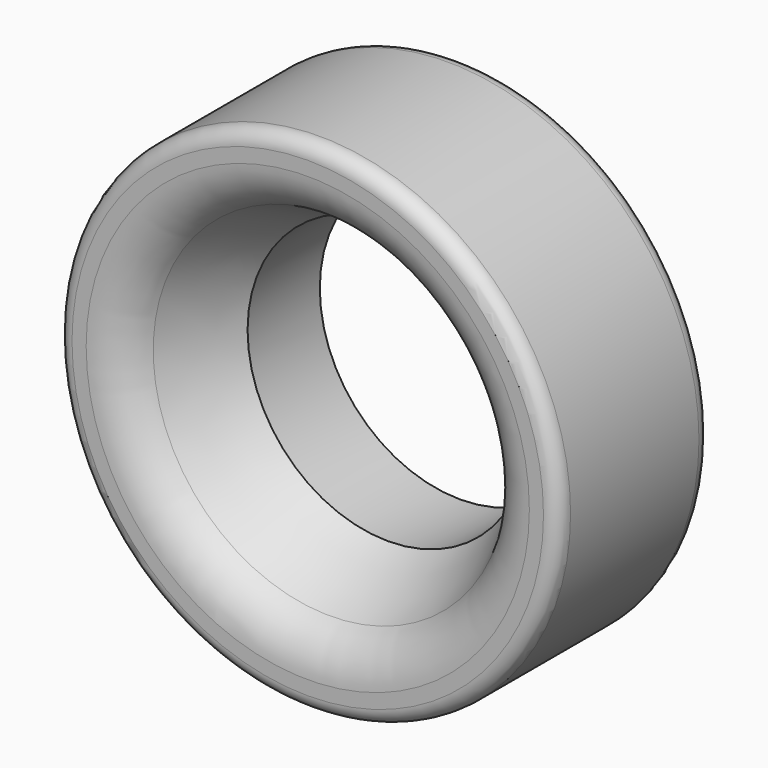
from build123d import *

# Parameters (mm, degrees)
F0_R     = 50
F0_R_2   = 28
F1_DEPTH = 38
F2_SIZE2 = 10
F2_SIZE  = 20
F3_R     = 10
F4_R     = 3


with BuildPart() as f1:
    # F0 (on Front) → F1 (new body)
    with BuildSketch(Plane.XZ):
        Circle(F0_R)
        Circle(F0_R_2, mode=Mode.SUBTRACT)
    extrude(amount=F1_DEPTH)

    # F2
    f2_edges = [f1.edges().sort_by_distance(p)[0] for p in [
        (-28, -38, 0),
    ]]
    f2_side = f1.faces().sort_by_distance((-28, -19, 0))[0]
    chamfer(f2_edges, length=F2_SIZE, length2=F2_SIZE2, reference=f2_side)

    # F3
    f3_edges = [f1.edges().sort_by_distance(p)[0] for p in [
        (-38, -38, 0),
    ]]
    fillet(f3_edges, radius=F3_R)

    # F4
    f4_edges = [f1.edges().sort_by_distance(p)[0] for p in [
        (-50, 0, 0),
        (-50, -38, 0),
    ]]
    fillet(f4_edges, radius=F4_R)


solid = f1.part
